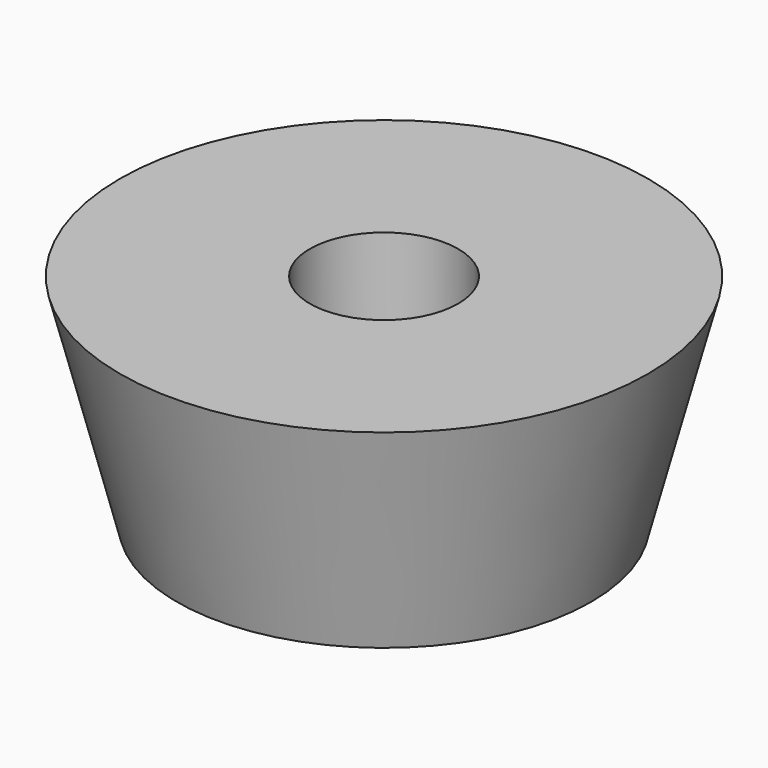
from build123d import *

# Parameters (mm, degrees)
F1_R     = 4.1656
F4_DEPTH = 12.319


with BuildPart() as f3:
    # F2 (on Front) → F3 (revolve)
    with BuildSketch(Plane.XZ):
        Polygon((0, 0), (-14.8336, 0), (-11.6332, -12.319), (0, -12.319), align=None)
    revolve(axis=Axis((0, 0, -6.1595), (0, 0, 1)))

    # F1 (on Top) → F4 (cut, through all)
    with BuildSketch(Plane.XY):
        Circle(F1_R)
    extrude(amount=-F4_DEPTH, mode=Mode.SUBTRACT)


solid = f3.part
